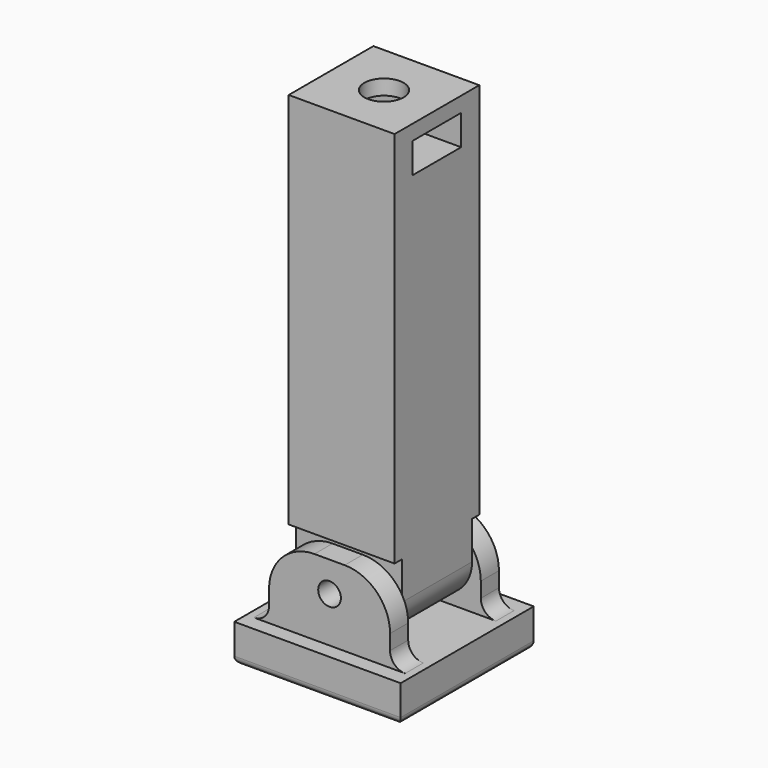
from build123d import *

# Parameters (mm, degrees)
BOX103_W          = 14
BOX103_H          = 8
BOX103_DEPTH      = 4
CYLINDER186_R     = 2.6
CYLINDER186_DEPTH = 50
CYLINDER185_R     = 1.7
CYLINDER185_DEPTH = 30
BOX099_W          = 22
BOX099_H          = 5.2
BOX099_DEPTH      = 10
BOX100_W          = 22
BOX100_H          = 5.2
BOX100_DEPTH      = 10
BOX097_W          = 14
BOX097_H          = 14
BOX097_DEPTH      = 60
FILLET050_R       = 5
CYLINDER184_R     = 1.5
CYLINDER184_DEPTH = 30
BOX102_W          = 16
BOX102_H          = 3
BOX102_DEPTH      = 10
FILLET052_R       = 6
BOX098_W          = 22
BOX098_H          = 22
BOX098_DEPTH      = 5
BOX101_W          = 16
BOX101_H          = 3
BOX101_DEPTH      = 10
FILLET051_R       = 6
FILLET053_R       = 2
FILLET054_R       = 1


with BuildPart() as cube070:
    # Box103 → Box103 (new body)
    with BuildSketch(Plane(origin=(253, -19, -12), x_dir=(1, 0, 0), z_dir=(0, 0, 1))):
        with Locations((7, 4)):
            Rectangle(BOX103_W, BOX103_H)
    extrude(amount=BOX103_DEPTH)


with BuildPart() as cylinder186:
    # Cylinder186 → Cylinder186 (new body)
    with BuildSketch(Plane(origin=(260, -15, -56), x_dir=(1, 0, 0), z_dir=(0, 0, 1))):
        Circle(CYLINDER186_R)
    extrude(amount=CYLINDER186_DEPTH)


with BuildPart() as cylinder185:
    # Cylinder185 → Cylinder185 (new body)
    with BuildSketch(Plane(origin=(260, 0, -61), x_dir=(1, 0, 0), z_dir=(0, -1, 0))):
        Circle(CYLINDER185_R)
    extrude(amount=CYLINDER185_DEPTH)


with BuildPart() as cube066:
    # Box099 → Box099 (new body)
    with BuildSketch(Plane(origin=(249, -26, -66), x_dir=(1, 0, 0), z_dir=(0, 0, 1))):
        with Locations((11, 2.6)):
            Rectangle(BOX099_W, BOX099_H)
    extrude(amount=BOX099_DEPTH)


with BuildPart() as fusion156:
    # Box100 → Box100 (new body)
    with BuildSketch(Plane(origin=(249, -9.2, -66), x_dir=(1, 0, 0), z_dir=(0, 0, 1))):
        with Locations((11, 2.6)):
            Rectangle(BOX100_W, BOX100_H)
    extrude(amount=BOX100_DEPTH)

    # Fusion156: union Cube066
    add(cube066.part)


with BuildPart() as cut119:
    # Box097 → Box097 (new body)
    with BuildSketch(Plane(origin=(253, -22, -66), x_dir=(1, 0, 0), z_dir=(0, 0, 1))):
        with Locations((7, 7)):
            Rectangle(BOX097_W, BOX097_H)
    extrude(amount=BOX097_DEPTH)

    # Fillet050
    fillet050_edges = [cut119.edges().sort_by_distance(p)[0] for p in [
        (253, -15, -66),
        (267, -15, -66),
    ]]
    fillet(fillet050_edges, radius=FILLET050_R)

    # Cut115: cut Fusion156
    add(fusion156.part, mode=Mode.SUBTRACT)

    # Cut117: cut Cylinder185
    add(cylinder185.part, mode=Mode.SUBTRACT)

    # Cut118: cut Cylinder186
    add(cylinder186.part, mode=Mode.SUBTRACT)

    # Cut119: cut Cube070
    add(cube070.part, mode=Mode.SUBTRACT)


with BuildPart() as cut119_1:
    # Cut119 placement: moved
    add(cut119.part.moved(Location((0, 0, 10))))


with BuildPart() as cylinder184:
    # Cylinder184 → Cylinder184 (new body)
    with BuildSketch(Plane(origin=(260, 0, -61), x_dir=(1, 0, 0), z_dir=(0, -1, 0))):
        Circle(CYLINDER184_R)
    extrude(amount=CYLINDER184_DEPTH)


with BuildPart() as fillet052:
    # Box102 → Box102 (new body)
    with BuildSketch(Plane(origin=(252, -26, -69), x_dir=(1, 0, 0), z_dir=(0, 0, 1))):
        with Locations((8, 1.5)):
            Rectangle(BOX102_W, BOX102_H)
    extrude(amount=BOX102_DEPTH)

    # Fillet052
    fillet052_edges = [fillet052.edges().sort_by_distance(p)[0] for p in [
        (252, -24.5, -59),
        (268, -24.5, -59),
    ]]
    fillet(fillet052_edges, radius=FILLET052_R)


with BuildPart() as fillet052_1:
    # Fillet052 placement: moved
    add(fillet052.part.moved(Location((0, 2, 0))))


with BuildPart() as cube065:
    # Box098 → Box098 (new body)
    with BuildSketch(Plane(origin=(249, -26, -74), x_dir=(1, 0, 0), z_dir=(0, 0, 1))):
        with Locations((11, 11)):
            Rectangle(BOX098_W, BOX098_H)
    extrude(amount=BOX098_DEPTH)


with BuildPart() as fusion158:
    # Box101 → Box101 (new body)
    with BuildSketch(Plane(origin=(252, -9, -69), x_dir=(1, 0, 0), z_dir=(0, 0, 1))):
        with Locations((8, 1.5)):
            Rectangle(BOX101_W, BOX101_H)
    extrude(amount=BOX101_DEPTH)

    # Fillet051
    fillet051_edges = [fusion158.edges().sort_by_distance(p)[0] for p in [
        (252, -7.5, -59),
        (268, -7.5, -59),
    ]]
    fillet(fillet051_edges, radius=FILLET051_R)

    # Fusion157: union Fillet052, Cube065
    add(fillet052_1.part)
    add(cube065.part)

    # Fillet053
    fillet053_edges = [fusion158.edges().sort_by_distance(p)[0] for p in [
        (252, -7.5, -69),
        (268, -7.5, -69),
        (252, -22.5, -69),
        (268, -22.5, -69),
    ]]
    fillet(fillet053_edges, radius=FILLET053_R)

    # Fillet054
    fillet054_edges = [fusion158.edges().sort_by_distance(p)[0] for p in [
        (249, -15, -74),
        (260, -4, -74),
        (260, -26, -74),
        (271, -15, -74),
    ]]
    fillet(fillet054_edges, radius=FILLET054_R)


with BuildPart() as fusion158_1:
    # Fillet054 placement: moved
    add(fusion158.part.moved(Location((0, 0, 2))))

    # Cut116: cut Cylinder184
    add(cylinder184.part, mode=Mode.SUBTRACT)


with BuildPart() as fusion158_2:
    # Cut116 placement: moved
    add(fusion158_1.part.moved(Location((0, 0, 10))))

    # Fusion158: union Cut119
    add(cut119_1.part)


with BuildPart() as fusion158_3:
    # Fusion158 placement: moved
    add(fusion158_2.part.moved(Location((0, 0, -43))))


solid = fusion158_3.part
